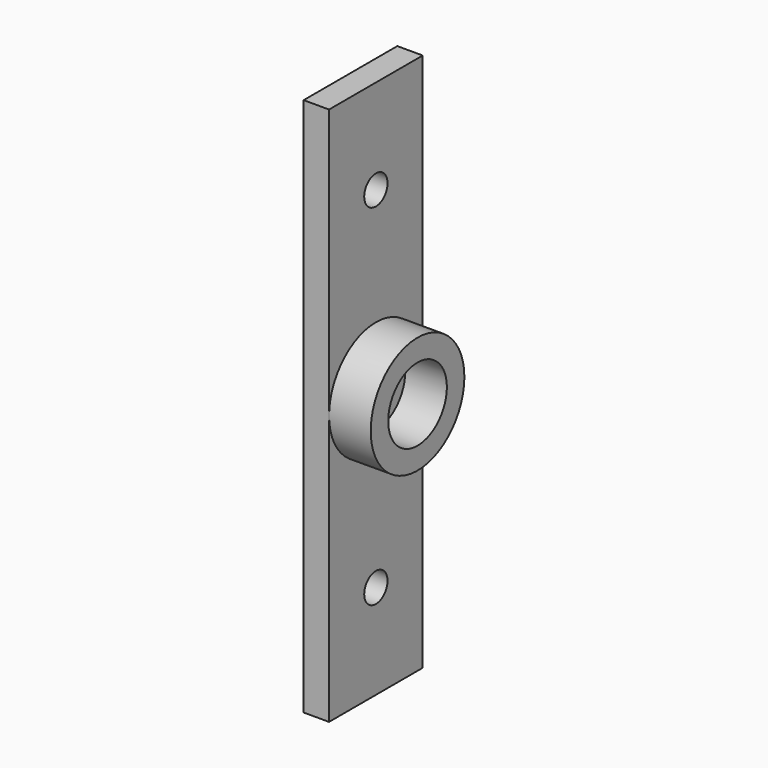
from build123d import *

# Parameters (mm, degrees)
F0_R     = 3.5687
F1_DEPTH = 2.54
F2_R     = 2.2352
F3_DEPTH = 2.54
F4_W     = 1.5494
F4_H     = 32.8676
F5_DEPTH = 3.5687
F6_R     = 0.889
F7_DEPTH = 25.4


with BuildPart() as f1:
    # F0 (on Right) → F1 (new body)
    with BuildSketch(Plane.YZ):
        Circle(F0_R)
    extrude(amount=F1_DEPTH)

    # F2 (on face) → F3 (cut)
    with BuildSketch(Plane.YZ.offset(2.54)):
        Circle(F2_R)
    extrude(amount=-F3_DEPTH, mode=Mode.SUBTRACT)

    # F4 (on Front) → F5 (join, symmetric)
    with BuildSketch(Plane.XZ):
        with Locations((-0.7747, 0)):
            Rectangle(F4_W, F4_H)
    extrude(amount=F5_DEPTH, both=True)

    # F6 (on face) → F7 (cut)
    with BuildSketch(Plane(origin=(-1.5494, 0, 0), x_dir=(0, -1, 0), z_dir=(-1, 0, 0))):
        with Locations((0, -10.668)):
            Circle(F6_R)
        with Locations((0, 10.668)):
            Circle(F6_R)
    extrude(amount=-F7_DEPTH, mode=Mode.SUBTRACT)


solid = f1.part
